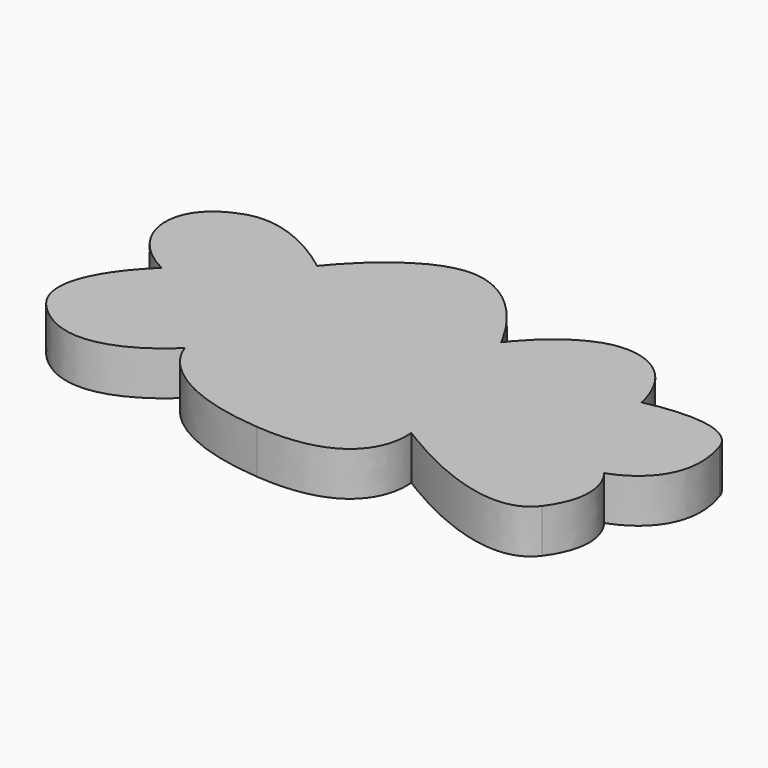
from build123d import *

# Parameters (mm, degrees)
EXTRUDE_DEPTH = 10


with BuildPart() as part:
    # path3336 → Extrude (new body)
    with BuildSketch(Plane(origin=(6.052701, 3.037905, 0), x_dir=(0, -1, 0), z_dir=(0, 0, -1))):
        with BuildLine():
            add(Edge.make_bspline(
                [(-27.698556, 57.875805), (-31.987366, 48.225986), (-20.550543, 34.644759), (-20.550543, 34.644759)],
                knots=[0, 0, 0, 0, 1, 1, 1, 1], degree=3))
            add(Edge.make_bspline(
                [(-20.550543, 34.644759), (-20.550543, 34.644759), (-36.633573, 22.135735), (-35.561372, 10.34151)],
                knots=[0, 0, 0, 0, 1, 1, 1, 1], degree=3))
            add(Edge.make_bspline(
                [(-35.561372, 10.34151), (-34.489167, -1.452715), (-18.048736, -9.315531), (-18.048736, -9.315531)],
                knots=[0, 0, 0, 0, 1, 1, 1, 1], degree=3))
            add(Edge.make_bspline(
                [(-18.048736, -9.315531), (-18.048736, -9.315531), (-31.272565, -18.965352), (-29.84296, -30.044777)],
                knots=[0, 0, 0, 0, 1, 1, 1, 1], degree=3))
            add(Edge.make_bspline(
                [(-29.84296, -30.044777), (-28.413357, -41.124198), (-15.546932, -43.268601), (-15.546932, -43.268601)],
                knots=[0, 0, 0, 0, 1, 1, 1, 1], degree=3))
            add(Edge.make_bspline(
                [(-15.546932, -43.268601), (-15.546932, -43.268601), (-20.27429, -61.656045), (-10.900722, -64.712644)],
                knots=[0, 0, 0, 0, 1, 1, 1, 1], degree=3))
            add(Edge.make_bspline(
                [(-10.900722, -64.712644), (5.53971, -70.073653), (9.82852, -55.062826), (9.82852, -55.062826)],
                knots=[0, 0, 0, 0, 1, 1, 1, 1], degree=3))
            add(Edge.make_bspline(
                [(9.82852, -55.062826), (9.82852, -55.062826), (16.976534, -61.496036), (26.626353, -54.348025)],
                knots=[0, 0, 0, 0, 1, 1, 1, 1], degree=3))
            add(Edge.make_bspline(
                [(26.626353, -54.348025), (37.524521, -46.275309), (19.120938, -18.607952), (19.120938, -18.607952)],
                knots=[0, 0, 0, 0, 1, 1, 1, 1], degree=3))
            add(Edge.make_bspline(
                [(19.120938, -18.607952), (19.120938, -18.607952), (36.633573, -21.467156), (34.489167, 4.265697)],
                knots=[0, 0, 0, 0, 1, 1, 1, 1], degree=3))
            add(Edge.make_bspline(
                [(34.489167, 4.265697), (32.344764, 29.99855), (18.763534, 33.215156), (18.763534, 33.215156)],
                knots=[0, 0, 0, 0, 1, 1, 1, 1], degree=3))
            add(Edge.make_bspline(
                [(18.763534, 33.215156), (18.763534, 33.215156), (35.36464, 48.774395), (21.980142, 62.164612)],
                knots=[0, 0, 0, 0, 1, 1, 1, 1], degree=3))
            add(Edge.make_bspline(
                [(21.980142, 62.164612), (11.904058, 72.245005), (-2.680508, 55.731399), (-2.680508, 55.731399)],
                knots=[0, 0, 0, 0, 1, 1, 1, 1], degree=3))
            add(Edge.make_bspline(
                [(-2.680508, 55.731399), (-9.214777, 68.682765), (-23.253633, 70.123036), (-27.698556, 57.875805)],
                knots=[0, 0, 0, 0, 1, 1, 1, 1], degree=3))
        make_face()
    extrude(amount=-EXTRUDE_DEPTH)


solid = part.part
